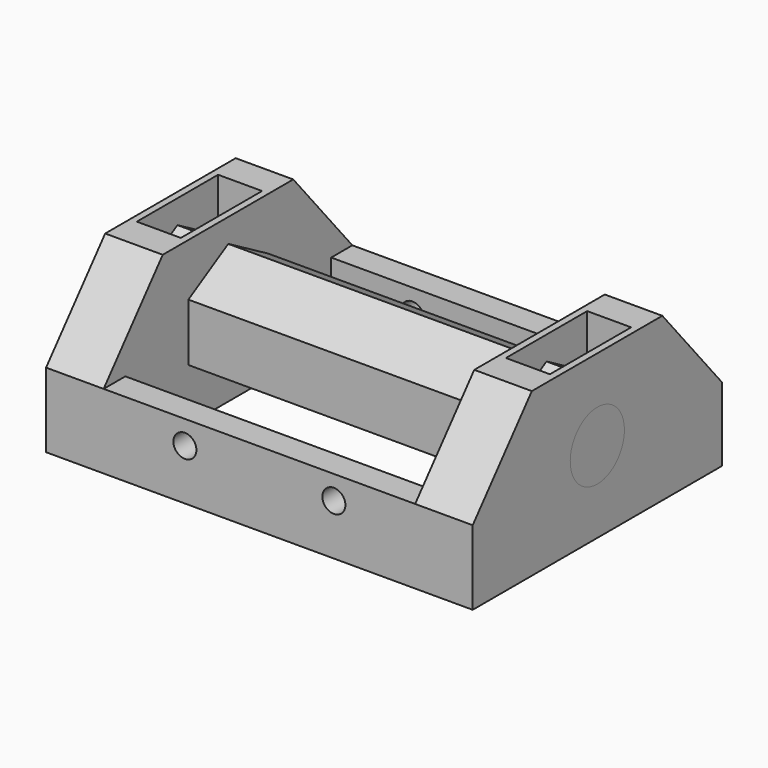
from build123d import *

# Parameters (mm, degrees)
PRISM_DEPTH             = 63
PRISM_PITCH_ANGLE       = 90
BOX007_W                = 63
BOX007_H                = 40
BOX007_DEPTH            = 10
BOX007_ROLL_ANGLE       = -50
BOX006_W                = 63
BOX006_H                = 40
BOX006_DEPTH            = 10
BOX006_ROLL_ANGLE       = 50
BOX005_W                = 6.5
BOX005_H                = 15
BOX005_DEPTH            = 25
BOX004_W                = 6.5
BOX004_H                = 15
BOX004_DEPTH            = 25
CYLINDER002_R           = 5
CYLINDER002_DEPTH       = 63
CYLINDER002_PITCH_ANGLE = 90
BOX003_W                = 8.5
BOX003_H                = 46
BOX003_DEPTH            = 24
BOX002_W                = 8.5
BOX002_H                = 46
BOX002_DEPTH            = 24
CYLINDER001_R           = 1.7
CYLINDER001_DEPTH       = 46
CYLINDER001_ROLL_ANGLE  = 90
CYLINDER_R              = 1.7
CYLINDER_DEPTH          = 46
CYLINDER_ROLL_ANGLE     = 90
BOX001_W                = 46
BOX001_H                = 38
BOX001_DEPTH            = 11
BOX_W                   = 63
BOX_H                   = 46
BOX_DEPTH               = 11


with BuildPart() as prisma:
    # Prism → Prism (new body)
    with BuildSketch(Plane.XY):
        Polygon((8.5, 0), (4.25, 7.361216), (-4.25, 7.361216), (-8.5, 0), (-4.25, -7.361216), (4.25, -7.361216), align=None)
    extrude(amount=PRISM_DEPTH)


with BuildPart() as prisma_1:
    # Prism pitch: moved
    add(prisma.part.rotate(Axis((0, 0, 0), (0, 1, 0)), PRISM_PITCH_ANGLE))


with BuildPart() as prisma_2:
    # Prism placement: moved
    add(prisma_1.part.moved(Location((0, 23, 8))))


with BuildPart() as cubo007:
    # Box007 → Box007 (new body)
    with BuildSketch(Plane.XY):
        with Locations((31.5, 20)):
            Rectangle(BOX007_W, BOX007_H)
    extrude(amount=BOX007_DEPTH)


with BuildPart() as cubo007_1:
    # Box007 roll: moved
    add(cubo007.part.rotate(Axis((0, 0, 0), (1, 0, 0)), BOX007_ROLL_ANGLE))


with BuildPart() as cubo007_2:
    # Box007 placement: moved
    add(cubo007_1.part.moved(Location((0, 35, 20))))


with BuildPart() as cubo006:
    # Box006 → Box006 (new body)
    with BuildSketch(Plane.XY):
        with Locations((31.5, 20)):
            Rectangle(BOX006_W, BOX006_H)
    extrude(amount=BOX006_DEPTH)


with BuildPart() as cubo006_1:
    # Box006 roll: moved
    add(cubo006.part.rotate(Axis((0, 0, 0), (1, 0, 0)), BOX006_ROLL_ANGLE))


with BuildPart() as cubo006_2:
    # Box006 placement: moved
    add(cubo006_1.part.moved(Location((0, 0, 7))))


with BuildPart() as cubo005:
    # Box005 → Box005 (new body)
    with BuildSketch(Plane(origin=(55.5, 15.5, -1), x_dir=(1, 0, 0), z_dir=(0, 0, 1))):
        with Locations((3.25, 7.5)):
            Rectangle(BOX005_W, BOX005_H)
    extrude(amount=BOX005_DEPTH)


with BuildPart() as cubo004:
    # Box004 → Box004 (new body)
    with BuildSketch(Plane(origin=(1, 15.5, -1), x_dir=(1, 0, 0), z_dir=(0, 0, 1))):
        with Locations((3.25, 7.5)):
            Rectangle(BOX004_W, BOX004_H)
    extrude(amount=BOX004_DEPTH)


with BuildPart() as cilindro002:
    # Cylinder002 → Cylinder002 (new body)
    with BuildSketch(Plane.XY):
        Circle(CYLINDER002_R)
    extrude(amount=CYLINDER002_DEPTH)


with BuildPart() as cilindro002_1:
    # Cylinder002 pitch: moved
    add(cilindro002.part.rotate(Axis((0, 0, 0), (0, 1, 0)), CYLINDER002_PITCH_ANGLE))


with BuildPart() as cilindro002_2:
    # Cylinder002 placement: moved
    add(cilindro002_1.part.moved(Location((0, 23, 8))))


with BuildPart() as cubo003:
    # Box003 → Box003 (new body)
    with BuildSketch(Plane(origin=(54.5, 0, -4), x_dir=(1, 0, 0), z_dir=(0, 0, 1))):
        with Locations((4.25, 23)):
            Rectangle(BOX003_W, BOX003_H)
    extrude(amount=BOX003_DEPTH)


with BuildPart() as cubo002:
    # Box002 → Box002 (new body)
    with BuildSketch(Plane.XY.offset(-4)):
        with Locations((4.25, 23)):
            Rectangle(BOX002_W, BOX002_H)
    extrude(amount=BOX002_DEPTH)


with BuildPart() as cilindro001:
    # Cylinder001 → Cylinder001 (new body)
    with BuildSketch(Plane.XY):
        Circle(CYLINDER001_R)
    extrude(amount=CYLINDER001_DEPTH)


with BuildPart() as cilindro001_1:
    # Cylinder001 roll: moved
    add(cilindro001.part.rotate(Axis((0, 0, 0), (1, 0, 0)), CYLINDER001_ROLL_ANGLE))


with BuildPart() as cilindro001_2:
    # Cylinder001 placement: moved
    add(cilindro001_1.part.moved(Location((42.5, 46, 3.5))))


with BuildPart() as cilindro:
    # Cylinder → Cylinder (new body)
    with BuildSketch(Plane.XY):
        Circle(CYLINDER_R)
    extrude(amount=CYLINDER_DEPTH)


with BuildPart() as cilindro_1:
    # Cylinder roll: moved
    add(cilindro.part.rotate(Axis((0, 0, 0), (1, 0, 0)), CYLINDER_ROLL_ANGLE))


with BuildPart() as cilindro_2:
    # Cylinder placement: moved
    add(cilindro_1.part.moved(Location((20.5, 46, 3.5))))


with BuildPart() as cubo001:
    # Box001 → Box001 (new body)
    with BuildSketch(Plane(origin=(8.5, 4, -4), x_dir=(1, 0, 0), z_dir=(0, 0, 1))):
        with Locations((23, 19)):
            Rectangle(BOX001_W, BOX001_H)
    extrude(amount=BOX001_DEPTH)


with BuildPart() as cut007:
    # Box → Box (new body)
    with BuildSketch(Plane.XY.offset(-4)):
        with Locations((31.5, 23)):
            Rectangle(BOX_W, BOX_H)
    extrude(amount=BOX_DEPTH)

    # Cut: cut Cubo001
    add(cubo001.part, mode=Mode.SUBTRACT)

    # Cut001: cut Cilindro
    add(cilindro_2.part, mode=Mode.SUBTRACT)

    # Cut002: cut Cilindro001
    add(cilindro001_2.part, mode=Mode.SUBTRACT)

    # Fusion: union Cubo002
    add(cubo002.part)

    # Fusion001: union Cubo003
    add(cubo003.part)

    # Cut003: cut Cilindro002
    add(cilindro002_2.part, mode=Mode.SUBTRACT)

    # Cut004: cut Cubo004
    add(cubo004.part, mode=Mode.SUBTRACT)

    # Cut005: cut Cubo005
    add(cubo005.part, mode=Mode.SUBTRACT)

    # Cut006: cut Cubo006
    add(cubo006_2.part, mode=Mode.SUBTRACT)

    # Cut007: cut Cubo007
    add(cubo007_2.part, mode=Mode.SUBTRACT)


solid = Compound([prisma_2.part, cut007.part])
